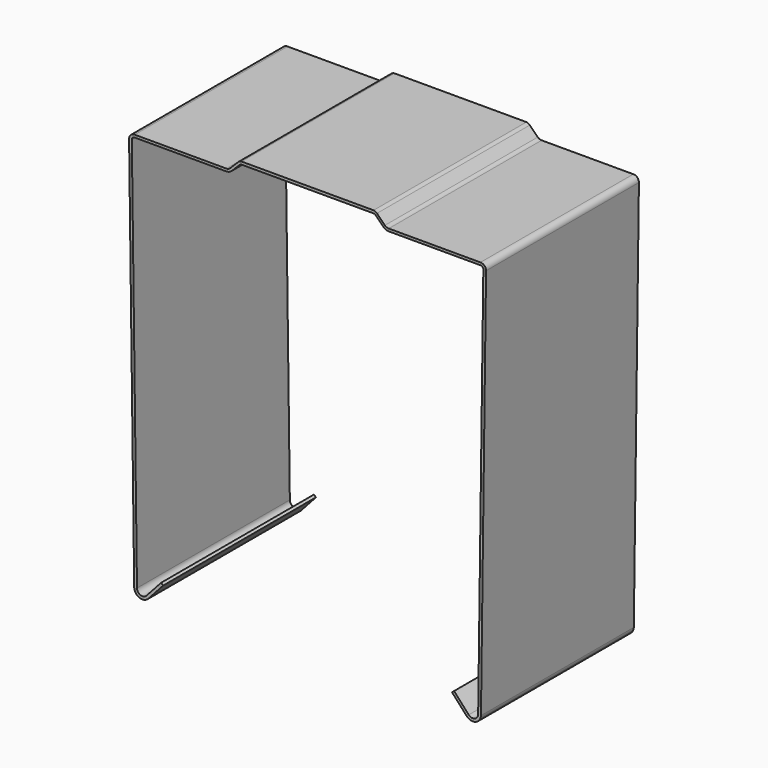
from build123d import *

# Parameters (mm, degrees)
F1_DEPTH = 35


with BuildPart() as f1:
    # F0 (on Front) → F1 (new body)
    with BuildSketch(Plane.XZ):
        with BuildLine():
            Line((12.085786, 0), (0, 0))
            Line((0, 0), (0, -0.5))
            Line((0, -0.5), (12.085786, -0.5))
            ThreePointArc((12.085786, -0.5), (12.277128, -0.53806), (12.43934, -0.646447))
            Line((12.43934, -0.646447), (13.853553, -2.06066))
            ThreePointArc((13.853553, -2.06066), (14.340188, -2.385819), (14.914214, -2.5))
            Line((14.914214, -2.5), (31.698506, -2.5))
            ThreePointArc((31.698506, -2.5), (32.06082, -2.65543), (32.197876, -3.025085))
            Line((32.197876, -3.025085), (31.25063, -75.025085))
            ThreePointArc((31.25063, -75.025085), (30.612597, -75.944154), (29.521571, -75.696289))
            Line((29.521571, -75.696289), (26.838608, -72.729523))
            Line((26.838608, -72.729523), (26.467762, -73.064893))
            Line((26.467762, -73.064893), (29.150726, -76.03166))
            ThreePointArc((29.150726, -76.03166), (30.771804, -76.436713), (31.761848, -75.090692))
            Line((31.761848, -75.090692), (32.697247, -3.05017))
            ThreePointArc((32.697247, -3.05017), (32.395822, -2.321567), (31.660132, -2.037879))
            Line((31.660132, -2.037879), (14.87584, -2.037879))
            ThreePointArc((14.87584, -2.037879), (14.493156, -1.961758), (14.168733, -1.744985))
            Line((14.168733, -1.744985), (12.713483, -0.289735))
            ThreePointArc((12.713483, -0.289735), (12.425469, -0.088899), (12.085786, 0))
        make_face()
        with BuildLine():
            Line((0, -0.5), (0, 0))
            Line((0, 0), (-12.085786, 0))
            ThreePointArc((-12.085786, 0), (-12.425469, -0.088899), (-12.713483, -0.289735))
            Line((-12.713483, -0.289735), (-14.168733, -1.744985))
            ThreePointArc((-14.168733, -1.744985), (-14.493156, -1.961758), (-14.87584, -2.037879))
            Line((-14.87584, -2.037879), (-31.660132, -2.037879))
            ThreePointArc((-31.660132, -2.037879), (-32.395822, -2.321567), (-32.697247, -3.05017))
            Line((-32.697247, -3.05017), (-31.761848, -75.090692))
            ThreePointArc((-31.761848, -75.090692), (-30.771804, -76.436713), (-29.150726, -76.03166))
            Line((-29.150726, -76.03166), (-26.467762, -73.064893))
            Line((-26.467762, -73.064893), (-26.838608, -72.729523))
            Line((-26.838608, -72.729523), (-29.521571, -75.696289))
            ThreePointArc((-29.521571, -75.696289), (-30.612597, -75.944154), (-31.25063, -75.025085))
            Line((-31.25063, -75.025085), (-32.197876, -3.025085))
            ThreePointArc((-32.197876, -3.025085), (-32.06082, -2.65543), (-31.698506, -2.5))
            Line((-31.698506, -2.5), (-14.914214, -2.5))
            ThreePointArc((-14.914214, -2.5), (-14.340188, -2.385819), (-13.853553, -2.06066))
            Line((-13.853553, -2.06066), (-12.43934, -0.646447))
            ThreePointArc((-12.43934, -0.646447), (-12.277128, -0.53806), (-12.085786, -0.5))
            Line((-12.085786, -0.5), (0, -0.5))
        make_face()
    extrude(amount=F1_DEPTH)


solid = f1.part
